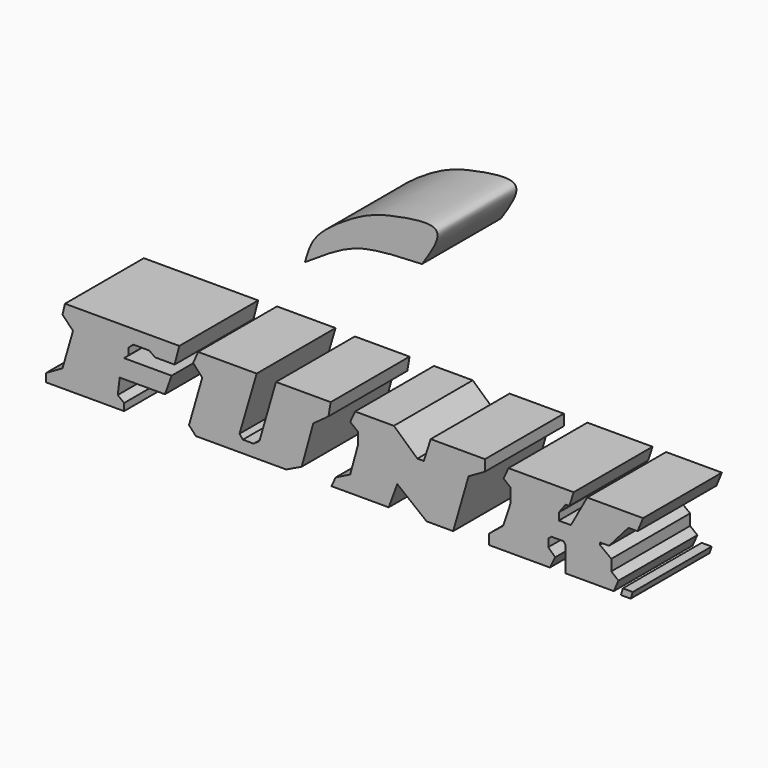
from build123d import *

# Parameters (mm, degrees)
F1_DEPTH = 25.4


with BuildPart() as f1:
    # F0 (on Front) → F1 (new body)
    with BuildSketch(Plane.XZ):
        Polygon((-41.4497889578, 28.5728499293), (-70.9118098021, 28.5728499293), (-71.5522840619, 25.8686058223), (-68.8480436802, 23.0931974947), (-71.5522840619, 13.6995110661), (-75.783059001, 11.2799247727), (-75.783059001, 9.1449962929), (-55.6826479733, 9.1449962929), (-55.6826479733, 10.9952678904), (-57.3194250464, 12.276224792), (-56.8212755024, 16.4037533104), (-45.1503321528, 16.4037533104), (-43.4423871338, 21.1717616767), (-55.6826479733, 21.1717616767), (-54.5440167189, 22.1680626273), (-54.5440167189, 23.9471700042), (-53.3342249691, 25.0146333128), (-49.2066964507, 25.0146333128), (-47.7122440934, 23.9471700042), (-42.6595807076, 23.9471700042), align=None)
    extrude(amount=F1_DEPTH)


with BuildPart() as f1b:
    # F0 (on Front) → F1, piece 2 (new body)
    with BuildSketch(Plane.XZ):
        Polygon((-21.5237848461, 28.7863407284), (-36.6106182337, 28.7863407284), (-37.891574204, 25.8686058223), (-35.5431511998, 23.3066901565), (-38.9590375125, 11.4222532138), (-37.1799319983, 9.5008173957), (-13.9092057943, 9.5008173957), (-9.9240047857, 11.4222532138), (-6.9351056591, 22.2392268479), (-3.0210679397, 25.0857975334), (-2.4517541751, 28.5016838461), (-16.5422856808, 28.5016838461), (-20.8121426404, 13.6995110661), (-22.306593135, 12.6320458949), (-25.0820014626, 12.6320458949), (-25.9359721094, 13.6995110661), align=None)
    extrude(amount=F1_DEPTH)


with BuildPart() as f1c:
    # F0 (on Front) → F1, piece 3 (new body)
    with BuildSketch(Plane.XZ):
        Polygon((13.8333337381, 28.4313391894), (3.8411605638, 28.4313391894), (2.5831414387, 25.6636980921), (4.5959721319, 24.05343391), (4.5959721319, 21.1348310113), (2.5831414387, 13.7376794592), (-1.1909151217, 11.8254907429), (-2.2475851983, 9.5008173957), (12.4963307753, 9.5008173957), (14.7104430944, 15.4989054427), (22.2585573792, 9.5008173957), (29.1021801531, 9.5008173957), (33.077519387, 23.248301819), (37.3044610023, 25.6636980921), (37.3044610023, 28.5016838461), (23.3171563596, 28.5016838461), (21.538939327, 22.9532327503), (19.8877379298, 22.9532327503), align=None)
    extrude(amount=F1_DEPTH)


with BuildPart() as f1d:
    # F0 (on Front) → F1, piece 4 (new body)
    with BuildSketch(Plane.XZ):
        Polygon((60.1628646255, 28.4313391894), (43.3585867286, 28.4313391894), (42.1005676035, 25.6636980921), (43.9282208681, 24.1619292647), (43.9282208681, 20.7441095263), (42.0056991279, 14.9053353816), (38.3742675185, 11.985947378), (38.3742675185, 9.3513783067), (54.039273411, 9.3513783067), (55.3921572864, 12.1283568442), (53.6120459437, 13.8372667134), (53.6120459437, 14.9765396491), (53.6120459437, 15.830995515), (54.3952956796, 16.4718348533), (57.5282946229, 16.4718348533), (58.0979324877, 15.7597903162), (58.0979324877, 9.3513783067), (70.4875290394, 9.3513783067), (71.6980025172, 12.1283568442), (69.8466897011, 13.6236529797), (69.8466897011, 16.4718348533), (66.9272989035, 18.6791773885), (66.9272989035, 19.2488133907), (69.277048111, 19.2488133907), (74.2613747716, 24.9451808631), (76.6224040091, 24.9451808631), (78.0352130532, 28.3630006015), (63.6518895626, 28.3630006015), (59.4508200884, 20.7441095263), (56.3178211451, 20.7441095263), (56.3178211451, 22.595429793), (58.0979324877, 24.9451808631), (59.0235926211, 24.9451808631), align=None)
    extrude(amount=F1_DEPTH)


with BuildPart() as f1e:
    # F0 (on Front) → F1, piece 5 (new body)
    with BuildSketch(Plane.XZ):
        with BuildLine():
            add(Edge.make_bspline(
                [(-9.1101396829, 58.0822378397), (-8.5769252352, 59.9175009422), (-7.473268579, 63.716160839), (-2.835246629, 68.3423020327), (6.453585838, 74.2352841812), (14.1777091225, 76.247779232), (28.3724768602, 78.4975007774), (23.5116687235, 71.1539976627), (21.0806000978, 67.4812421203)],
                knots=[0, 0, 0, 0, 0.1364049663, 0.2823334021, 0.4690120692, 0.6448696999, 0.8223862974, 1, 1, 1, 1], degree=3))
            add(Edge.make_bspline(
                [(-9.1101396829, 58.0822378397), (-5.332912296, 60.6051376981), (1.5313036285, 65.1899104984), (10.0724630023, 67.0375369348), (17.259832511, 67.3272383705), (21.0806000978, 67.4812421203)],
                knots=[0, 0, 0, 0, 0.3643282344, 0.6620802541, 1, 1, 1, 1], degree=3))
        make_face()
    extrude(amount=F1_DEPTH)


with BuildPart() as f1f:
    # F0 (on Front) → F1, piece 6 (new body)
    with BuildSketch(Plane.XZ):
        Polygon((75.3912478685, 10.7475100085), (72.8158503771, 10.7475100085), (72.3245069385, 9.0564358979), (74.840053916, 9.0564358979), align=None)
    extrude(amount=F1_DEPTH)


solid = Compound([f1.part, f1b.part, f1c.part, f1d.part, f1e.part, f1f.part])
